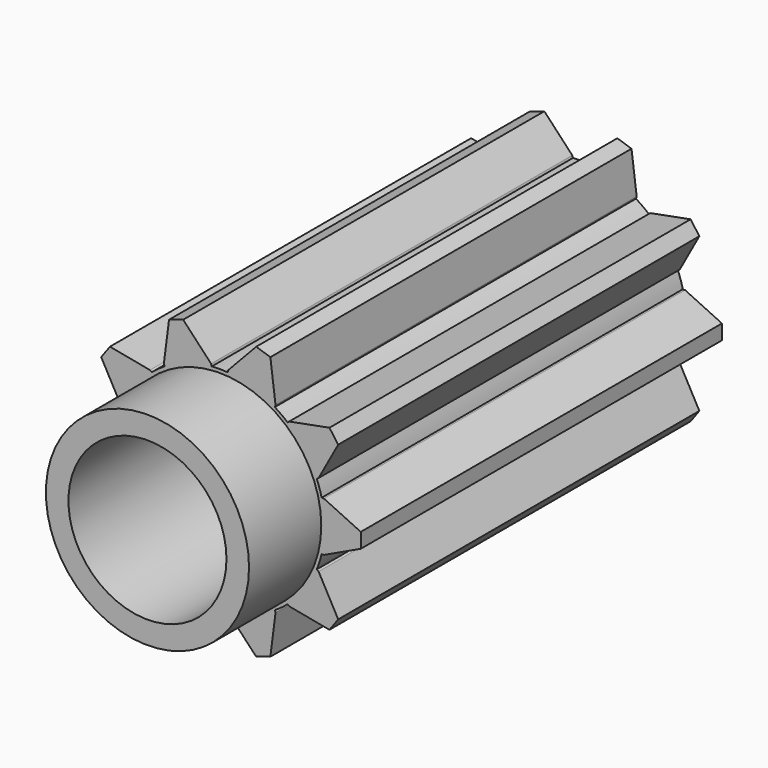
from build123d import *

# Parameters (mm, degrees)
F1_DEPTH      = 10
F1_DEPTH_BACK = 10
F2_R          = 4.5
F3_DEPTH      = 4
F4_R          = 3.5
F5_DEPTH      = 25.2476


with BuildPart() as f1:
    # F0 (on Front) → F1 (new body, two sides)
    with BuildSketch(Plane.XZ) as f1_sk:
        with BuildLine():
            ThreePointArc((4.518019, -1.1), (4.616887, -0.553945), (4.65, 0))
            ThreePointArc((4.65, 0), (4.616887, 0.553945), (4.518019, 1.1))
            ThreePointArc((4.518019, 1.1), (4.422413, 1.436929), (4.301718, 1.765707))
            ThreePointArc((4.301718, 1.765707), (3.761929, 2.733201), (3.008591, 3.545544))
            ThreePointArc((3.008591, 3.545544), (2.733201, 3.761929), (2.442307, 3.956973))
            ThreePointArc((2.442307, 3.956973), (1.436929, 4.422413), (0.349983, 4.636811))
            ThreePointArc((0.349983, 4.636811), (0, 4.65), (-0.349983, 4.636811))
            ThreePointArc((-0.349983, 4.636811), (-1.436929, 4.422413), (-2.442307, 3.956973))
            ThreePointArc((-2.442307, 3.956973), (-2.733201, 3.761929), (-3.008591, 3.545544))
            ThreePointArc((-3.008591, 3.545544), (-3.761929, 2.733201), (-4.301718, 1.765707))
            ThreePointArc((-4.301718, 1.765707), (-4.422413, 1.436929), (-4.518019, 1.1))
            ThreePointArc((-4.518019, 1.1), (-4.65, 0), (-4.518019, -1.1))
            ThreePointArc((-4.518019, -1.1), (-4.422413, -1.436929), (-4.301718, -1.765707))
            ThreePointArc((-4.301718, -1.765707), (-3.761929, -2.733201), (-3.008591, -3.545544))
            ThreePointArc((-3.008591, -3.545544), (-2.733201, -3.761929), (-2.442307, -3.956973))
            ThreePointArc((-2.442307, -3.956973), (-1.436929, -4.422413), (-0.349983, -4.636811))
            ThreePointArc((-0.349983, -4.636811), (0, -4.65), (0.349983, -4.636811))
            ThreePointArc((0.349983, -4.636811), (1.436929, -4.422413), (2.442307, -3.956973))
            ThreePointArc((2.442307, -3.956973), (2.733201, -3.761929), (3.008591, -3.545544))
            ThreePointArc((3.008591, -3.545544), (3.761929, -2.733201), (4.301718, -1.765707))
            ThreePointArc((4.301718, -1.765707), (4.422413, -1.436929), (4.518019, -1.1))
        make_face()
        with BuildLine():
            ThreePointArc((4.518019, 1.1), (4.616887, 0.553945), (4.65, 0))
            ThreePointArc((4.65, 0), (4.616887, -0.553945), (4.518019, -1.1))
            Line((4.518019, -1.1), (4.618019, -1.1))
            Line((4.618019, -1.1), (6.25, -0.329923))
            Line((6.25, -0.329923), (6.25, 0))
            Line((6.25, 0), (6.25, 0.329923))
            Line((6.25, 0.329923), (4.618019, 1.1))
            Line((4.618019, 1.1), (4.518019, 1.1))
        make_face()
        with BuildLine():
            ThreePointArc((3.008591, 3.545544), (3.761929, 2.733201), (4.301718, 1.765707))
            Line((4.301718, 1.765707), (4.38262, 1.824485))
            Line((4.38262, 1.824485), (5.25028, 3.406744))
            Line((5.25028, 3.406744), (5.056356, 3.673658))
            Line((5.056356, 3.673658), (4.862432, 3.940572))
            Line((4.862432, 3.940572), (3.089492, 3.604322))
            Line((3.089492, 3.604322), (3.008591, 3.545544))
        make_face()
        with BuildLine():
            Line((4.38262, -1.824485), (4.301718, -1.765707))
            ThreePointArc((4.301718, -1.765707), (3.761929, -2.733201), (3.008591, -3.545544))
            Line((3.008591, -3.545544), (3.089492, -3.604322))
            Line((3.089492, -3.604322), (4.862432, -3.940572))
            Line((4.862432, -3.940572), (5.056356, -3.673658))
            Line((5.056356, -3.673658), (5.25028, -3.406744))
            Line((5.25028, -3.406744), (4.38262, -1.824485))
        make_face()
        with BuildLine():
            ThreePointArc((0.349983, 4.636811), (1.436929, 4.422413), (2.442307, 3.956973))
            Line((2.442307, 3.956973), (2.473209, 4.052079))
            Line((2.473209, 4.052079), (2.245132, 5.842151))
            Line((2.245132, 5.842151), (1.931356, 5.944103))
            Line((1.931356, 5.944103), (1.61758, 6.046055))
            Line((1.61758, 6.046055), (0.380884, 4.731916))
            Line((0.380884, 4.731916), (0.349983, 4.636811))
        make_face()
        with BuildLine():
            Line((2.473209, -4.052079), (2.442307, -3.956973))
            ThreePointArc((2.442307, -3.956973), (1.436929, -4.422413), (0.349983, -4.636811))
            Line((0.349983, -4.636811), (0.380884, -4.731916))
            Line((0.380884, -4.731916), (1.61758, -6.046055))
            Line((1.61758, -6.046055), (1.931356, -5.944103))
            Line((1.931356, -5.944103), (2.245132, -5.842151))
            Line((2.245132, -5.842151), (2.473209, -4.052079))
        make_face()
        with BuildLine():
            ThreePointArc((-2.442307, 3.956973), (-1.436929, 4.422413), (-0.349983, 4.636811))
            Line((-0.349983, 4.636811), (-0.380884, 4.731916))
            Line((-0.380884, 4.731916), (-1.61758, 6.046055))
            Line((-1.61758, 6.046055), (-1.931356, 5.944103))
            Line((-1.931356, 5.944103), (-2.245132, 5.842151))
            Line((-2.245132, 5.842151), (-2.473209, 4.052079))
            Line((-2.473209, 4.052079), (-2.442307, 3.956973))
        make_face()
        with BuildLine():
            Line((-0.380884, -4.731916), (-0.349983, -4.636811))
            ThreePointArc((-0.349983, -4.636811), (-1.436929, -4.422413), (-2.442307, -3.956973))
            Line((-2.442307, -3.956973), (-2.473209, -4.052079))
            Line((-2.473209, -4.052079), (-2.245132, -5.842151))
            Line((-2.245132, -5.842151), (-1.931356, -5.944103))
            Line((-1.931356, -5.944103), (-1.61758, -6.046055))
            Line((-1.61758, -6.046055), (-0.380884, -4.731916))
        make_face()
        with BuildLine():
            ThreePointArc((-4.301718, 1.765707), (-3.761929, 2.733201), (-3.008591, 3.545544))
            Line((-3.008591, 3.545544), (-3.089492, 3.604322))
            Line((-3.089492, 3.604322), (-4.862432, 3.940572))
            Line((-4.862432, 3.940572), (-5.056356, 3.673658))
            Line((-5.056356, 3.673658), (-5.25028, 3.406744))
            Line((-5.25028, 3.406744), (-4.38262, 1.824485))
            Line((-4.38262, 1.824485), (-4.301718, 1.765707))
        make_face()
        with BuildLine():
            Line((-3.089492, -3.604322), (-3.008591, -3.545544))
            ThreePointArc((-3.008591, -3.545544), (-3.761929, -2.733201), (-4.301718, -1.765707))
            Line((-4.301718, -1.765707), (-4.38262, -1.824485))
            Line((-4.38262, -1.824485), (-5.25028, -3.406744))
            Line((-5.25028, -3.406744), (-5.056356, -3.673658))
            Line((-5.056356, -3.673658), (-4.862432, -3.940572))
            Line((-4.862432, -3.940572), (-3.089492, -3.604322))
        make_face()
        with BuildLine():
            ThreePointArc((-4.518019, -1.1), (-4.65, 0), (-4.518019, 1.1))
            Line((-4.518019, 1.1), (-4.618019, 1.1))
            Line((-4.618019, 1.1), (-6.25, 0.329923))
            Line((-6.25, 0.329923), (-6.25, 0))
            Line((-6.25, 0), (-6.25, -0.329923))
            Line((-6.25, -0.329923), (-4.618019, -1.1))
            Line((-4.618019, -1.1), (-4.518019, -1.1))
        make_face()
    extrude(amount=F1_DEPTH)
    extrude(f1_sk.sketch, amount=-F1_DEPTH_BACK)

    # F2 (on face) → F3 (join)
    with BuildSketch(Plane.XZ.offset(10)):
        Circle(F2_R)
    extrude(amount=F3_DEPTH)

    # F4 (on face) → F5 (cut)
    with BuildSketch(Plane.XZ.offset(14)):
        Circle(F4_R)
    extrude(amount=-F5_DEPTH, mode=Mode.SUBTRACT)


solid = f1.part
